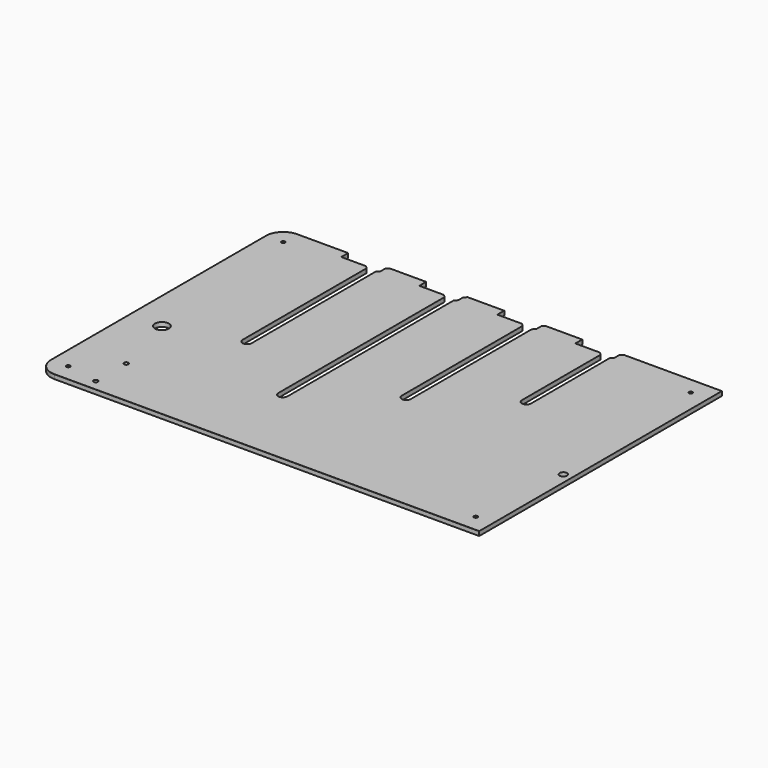
from build123d import *

# Parameters (mm, degrees)
SKETCH018_W     = 510
SKETCH018_H     = 350
PAD015_DEPTH    = 5
SKETCH019_R     = 8
SKETCH019_R_2   = 4.25
POCKET011_DEPTH = 5.001
FILLET005_R     = 20
SKETCH020_R     = 2
POCKET012_DEPTH = 5.001
CHAMFER009_SIZE = 6
CHAMFER010_SIZE = 0.1
CHAMFER011_SIZE = 0.1
SKETCH052_W     = 45
SKETCH052_H     = 10
POCKET033_DEPTH = 5.001
CHAMFER024_SIZE = 2.99
SKETCH068_R     = 2.5
POCKET043_DEPTH = 5.001


with BuildPart() as part:
    # Sketch018 → Pad015 (new body)
    with BuildSketch(Plane.XY):
        with Locations((-20, 41.2)):
            Rectangle(SKETCH018_W, SKETCH018_H)
    extrude(amount=PAD015_DEPTH)

    # Sketch019 (on Face6 of Pad015) → Pocket011 (cut, through all)
    with BuildSketch(Plane.XY.offset(5)):
        with Locations((-238, 0)):
            Circle(SKETCH019_R)
        with Locations((225, 0)):
            Circle(SKETCH019_R_2)
        with BuildLine():
            ThreePointArc((-164.573184, 24.404903), (-159.323184, 19.154903), (-154.073184, 24.404903))
            Line((-154.073184, 24.404903), (-154.073184, 216.2))
            ThreePointArc((-154.073184, 216.2), (-159.323184, 221.45), (-164.573184, 216.2))
            Line((-164.573184, 24.404903), (-164.573184, 216.2))
        make_face()
        with BuildLine():
            ThreePointArc((-74.573184, -36.417713), (-69.323184, -41.667713), (-64.073184, -36.417713))
            Line((-64.073184, -36.417713), (-64.073184, 216.2))
            ThreePointArc((-64.073184, 216.2), (-69.323184, 221.45), (-74.573184, 216.2))
            Line((-74.573184, -36.417713), (-74.573184, 216.2))
        make_face()
        with BuildLine():
            ThreePointArc((15.426816, 28.977719), (20.676816, 23.727719), (25.926816, 28.977719))
            Line((25.926816, 28.977719), (25.926816, 216.2))
            ThreePointArc((25.926816, 216.2), (20.676816, 221.45), (15.426816, 216.2))
            Line((15.426816, 28.977719), (15.426816, 216.2))
        make_face()
        with BuildLine():
            ThreePointArc((105.426816, 89.800335), (110.676816, 84.550335), (115.926816, 89.800335))
            Line((115.926816, 89.800335), (115.926816, 216.2))
            ThreePointArc((115.926816, 216.2), (110.676816, 221.45), (105.426816, 216.2))
            Line((105.426816, 89.800335), (105.426816, 216.2))
        make_face()
    extrude(amount=-POCKET011_DEPTH, mode=Mode.SUBTRACT)

    # Fillet005
    fillet005_edges = [part.edges().sort_by_distance(p)[0] for p in [
        (-275, 216.2, 2.5),
        (-275, -133.8, 2.5),
    ]]
    fillet(fillet005_edges, radius=FILLET005_R)

    # Sketch020 (on Face5 of Fillet005) → Pocket012 (cut, through all)
    with BuildSketch(Plane.XY.offset(5)):
        with Locations((-255, 196.2)):
            Circle(SKETCH020_R)
        with Locations((-255, -113.8)):
            Circle(SKETCH020_R)
        with Locations((215, -113.8)):
            Circle(SKETCH020_R)
        with Locations((215, 196.2)):
            Circle(SKETCH020_R)
    extrude(amount=-POCKET012_DEPTH, mode=Mode.SUBTRACT)

    # Chamfer009
    chamfer009_edges = [part.edges().sort_by_distance(p)[0] for p in [
        (-164.573184, 216.2, 2.5),
        (-154.073184, 216.2, 2.5),
        (-74.573184, 216.2, 2.5),
        (-64.073184, 216.2, 2.5),
        (15.426816, 216.2, 2.5),
        (25.926816, 216.2, 2.5),
        (105.426816, 216.2, 2.5),
        (115.926816, 216.2, 2.5),
    ]]
    chamfer(chamfer009_edges, length=CHAMFER009_SIZE)

    # Chamfer010
    chamfer010_edges = [part.edges().sort_by_distance(p)[0] for p in [
        (-212.786592, 216.2, 5),
        (-114.323184, 216.2, 5),
        (-24.323184, 216.2, 5),
        (65.676816, 216.2, 5),
        (178.463408, 216.2, 5),
    ]]
    chamfer(chamfer010_edges, length=CHAMFER010_SIZE)

    # Chamfer011
    chamfer011_edges = [part.edges().sort_by_distance(p)[0] for p in [
        (-257, 196.2, 5),
        (-257, -113.8, 5),
        (213, -113.8, 5),
        (213, 196.2, 5),
    ]]
    chamfer(chamfer011_edges, length=CHAMFER011_SIZE)

    # Sketch052 (on Face1 of Chamfer011) → Pocket033 (cut, through all)
    with BuildSketch(Plane.XY.offset(5)):
        with Locations((-173.573184, 211.2)):
            Rectangle(SKETCH052_W, SKETCH052_H)
        with Locations((-83.573184, 211.2)):
            Rectangle(SKETCH052_W, SKETCH052_H)
        with Locations((6.426816, 211.2)):
            Rectangle(SKETCH052_W, SKETCH052_H)
        with Locations((96.426816, 211.2)):
            Rectangle(SKETCH052_W, SKETCH052_H)
    extrude(amount=-POCKET033_DEPTH, mode=Mode.SUBTRACT)

    # Chamfer024
    chamfer024_edges = [part.edges().sort_by_distance(p)[0] for p in [
        (-164.573184, 206.2, 2.5),
        (-154.073184, 206.2, 2.5),
        (-74.573184, 206.2, 2.5),
        (-64.073184, 206.2, 2.5),
        (15.426816, 206.2, 2.5),
        (25.926816, 206.2, 2.5),
        (105.426816, 206.2, 2.5),
        (115.926816, 206.2, 2.5),
    ]]
    chamfer(chamfer024_edges, length=CHAMFER024_SIZE)

    # Sketch068 (on Face1 of Chamfer024) → Pocket043 (cut, through all)
    with BuildSketch(Plane.XY.offset(5)):
        with Locations((-217.5, -77)):
            Circle(SKETCH068_R)
        with Locations((-217.5, -121)):
            Circle(SKETCH068_R)
    extrude(amount=-POCKET043_DEPTH, mode=Mode.SUBTRACT)


with BuildPart() as part_1:
    # Body011 placement: moved
    add(part.part.moved(Location((0, 0, 10.25))))


solid = part_1.part
